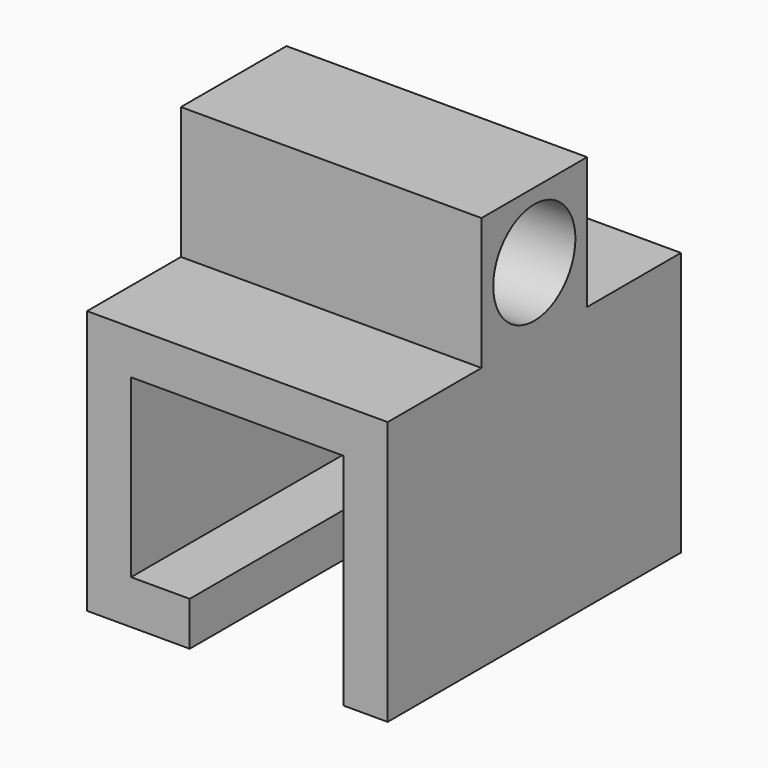
from build123d import *

# Parameters (mm, degrees)
F0_W     = 4
F0_H     = 3
F0_W_2   = 3
F0_H_2   = 15
F1_DEPTH = 25
F2_W     = 20.5
F2_H     = 9
F3_DEPTH = 9
F4_R     = 3.5
F5_DEPTH = 20.5


with BuildPart() as f1:
    # F0 (on Front) → F1 (new body)
    with BuildSketch(Plane.XZ):
        Polygon((-7.90625, 3), (-7.90625, 0), (-4.90625, 0), (9.59375, 0), (12.59375, 0), (12.59375, 3), align=None)
        Polygon((-4.90625, 0), (-7.90625, 0), (-7.90625, -15), (-4.90625, -15), (-4.90625, -12), align=None)
        with Locations((-2.90625, -13.5)):
            Rectangle(F0_W, F0_H)
        with Locations((11.09375, -7.5)):
            Rectangle(F0_W_2, F0_H_2)
    extrude(amount=F1_DEPTH)

    # F2 (on face) → F3 (join)
    with BuildSketch(Plane.XY.offset(3)):
        with Locations((2.34375, -12.5)):
            Rectangle(F2_W, F2_H)
    extrude(amount=F3_DEPTH)

    # F4 (on face) → F5 (cut)
    with BuildSketch(Plane(origin=(-7.90625, 0, 0), x_dir=(0, -1, 0), z_dir=(-1, 0, 0))):
        with Locations((12.5, 7.5)):
            Circle(F4_R)
    extrude(amount=-F5_DEPTH, mode=Mode.SUBTRACT)


solid = f1.part
